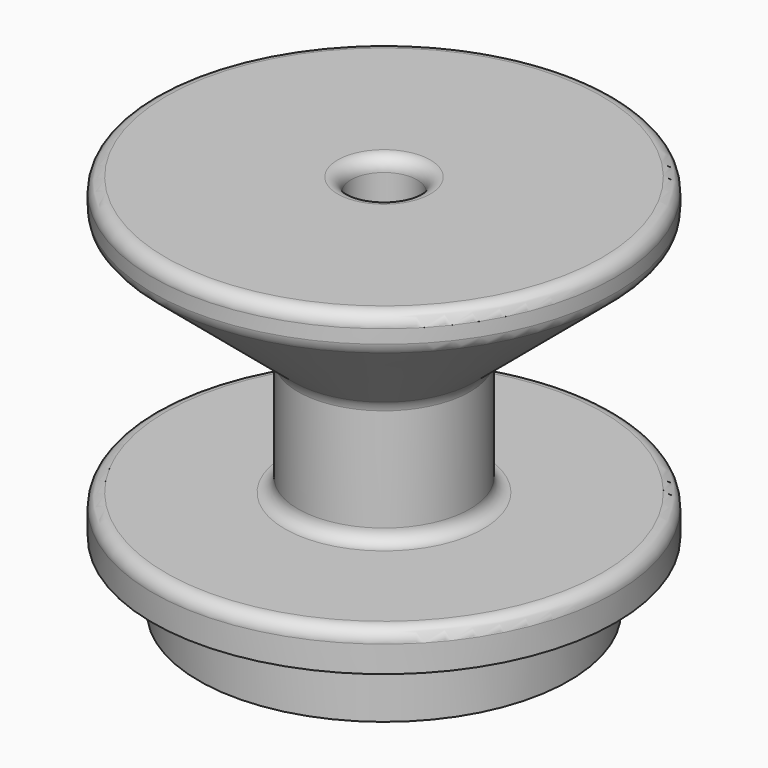
from build123d import *

# Parameters (mm, degrees)
F2_R = 1.27


with BuildPart() as f1:
    # F0 (on Front) → F1 (revolve)
    with BuildSketch(Plane.XZ):
        Polygon((-9.525, 1.27), (-3.175, 1.27), (-3.175, 36.83), (-22.225, 36.83), (-22.225, 33.655), (-8.255, 21.932778), (-8.255, 10.16), (-22.225, 10.16), (-22.225, 6.35), (-17.78, 6.35), (-17.78, 0), (-9.525, 0), align=None)
    revolve(axis=Axis((0, 0, 18.415), (0, 0, 1)))

    # F2
    f2_edges = [f1.edges().sort_by_distance(p)[0] for p in [
        (22.225, 0, 36.83),
        (22.225, 0, 33.655),
        (8.255, 0, 21.932778),
        (8.255, 0, 10.16),
        (22.225, 0, 10.16),
        (3.175, 0, 36.83),
    ]]
    fillet(f2_edges, radius=F2_R)


solid = f1.part
